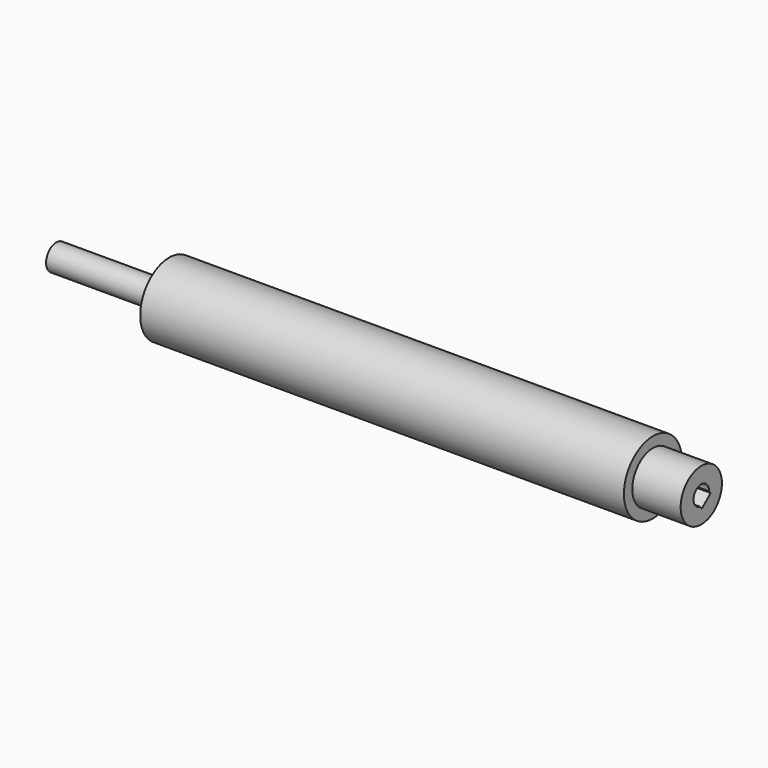
from build123d import *

# Parameters (mm, degrees)
SKETCH026_R     = 4
PAD015_DEPTH    = 110
SKETCH027_R     = 11.25
PAD016_DEPTH    = 75
SKETCH029_R     = 8
PAD017_DEPTH    = 90
POCKET012_DEPTH = 18


with BuildPart() as part:
    # Sketch026 → Pad015 (new body)
    with BuildSketch(Plane.YZ):
        Circle(SKETCH026_R)
    extrude(amount=-PAD015_DEPTH)

    # Sketch027 → Pad016 (new body, symmetric)
    with BuildSketch(Plane.YZ):
        Circle(SKETCH027_R)
    extrude(amount=PAD016_DEPTH, both=True)

    # Sketch029 → Pad017 (new body)
    with BuildSketch(Plane.YZ):
        Circle(SKETCH029_R)
    extrude(amount=PAD017_DEPTH)

    # Sketch028 → Pocket012 (cut)
    with BuildSketch(Plane.YZ.offset(90)):
        with BuildLine():
            ThreePointArc((2.99806, -0.107877), (-1.918287, 2.306551), (-0.44036, -2.967505))
            Line((-0.44036, -2.967505), (0.198883, -3.73651))
            Line((0.198883, -3.73651), (3.637995, -0.877715))
            Line((2.99806, -0.107877), (3.637995, -0.877715))
        make_face()
    extrude(amount=-POCKET012_DEPTH, mode=Mode.SUBTRACT)


solid = part.part
